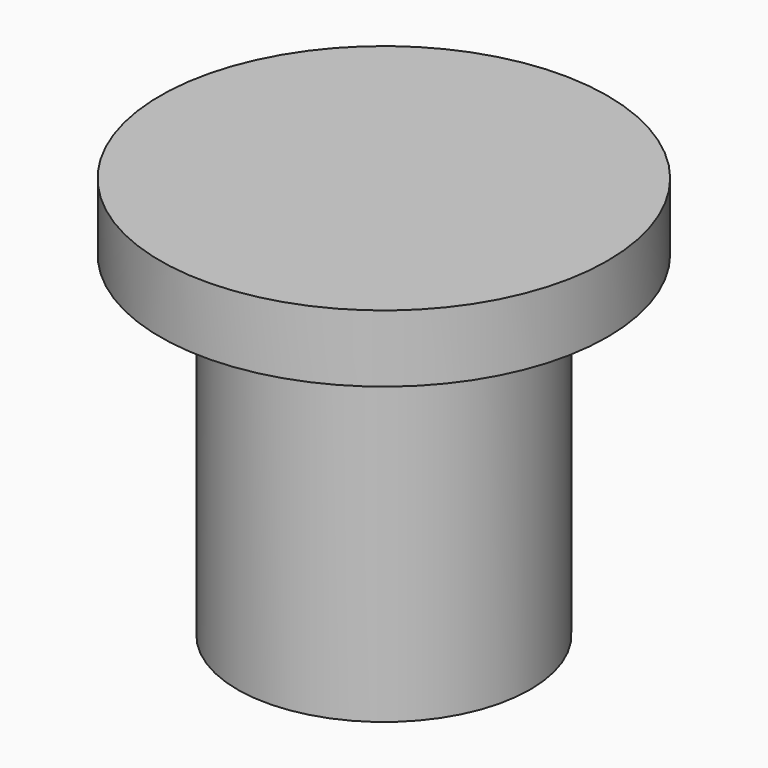
from build123d import *

# Parameters (mm, degrees)
F2_R     = 10
F3_DEPTH = 3


with BuildPart() as f1:
    # F0 (on Front) → F1 (revolve)
    with BuildSketch(Plane.XZ):
        Polygon((2.05, 12), (3.55, 0), (6.55, 0), (6.55, 15), (0, 15), (0, 12), align=None)
    revolve(axis=Axis((0, 0, 3.882699), (0, 0, -1)))

    # F2 (on face) → F3 (join)
    with BuildSketch(Plane.XY.offset(15)):
        Circle(F2_R)
    extrude(amount=F3_DEPTH)


solid = f1.part
